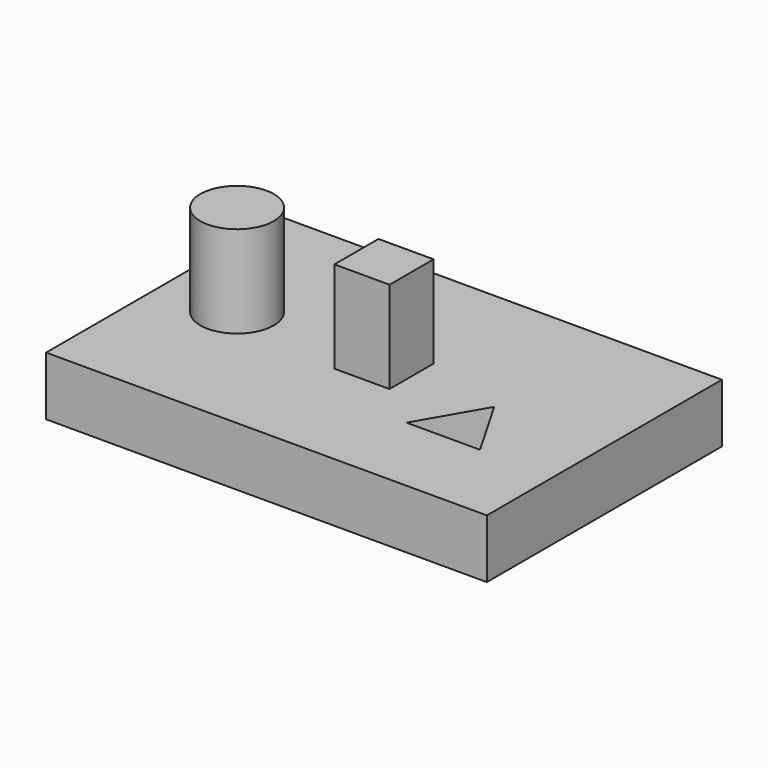
from build123d import *

# Parameters (mm, degrees)
F0_R     = 12.7
F1_DEPTH = 20.32
F2_DEPTH = 52.07


with BuildPart() as f1:
    # F0 (on Top) → F1 (new body)
    with BuildSketch(Plane.XY):
        Polygon((44.45, -50.8), (44.45, 0), (44.45, 50.8), (-107.95, 50.8), (-107.95, -50.8), align=None)
        with Locations((-82.55, 0)):
            Circle(F0_R, mode=Mode.SUBTRACT)
        Polygon((-22.225, 9.525), (-22.225, 0), (-22.225, -9.525), (-41.275, -9.525), (-41.275, 0), (-41.275, 9.525), align=None, mode=Mode.SUBTRACT)
        Polygon((-6.35, -21.9970452561), (6.35, 0), (19.05, -21.9970452561), align=None, mode=Mode.SUBTRACT)
    extrude(amount=F1_DEPTH)


with BuildPart() as f2:
    # F0 (on Top) → F2 (new body)
    with BuildSketch(Plane.XY):
        Polygon((-31.75, 0), (-22.225, 0), (-22.225, 9.525), (-41.275, 9.525), (-41.275, 0), align=None)
        Polygon((-22.225, -9.525), (-22.225, 0), (-31.75, 0), (-41.275, 0), (-41.275, -9.525), align=None)
    extrude(amount=F2_DEPTH)


with BuildPart() as f2b:
    # F0 (on Top) → F2, piece 2 (new body)
    with BuildSketch(Plane.XY):
        with Locations((-82.55, 0)):
            Circle(F0_R)
    extrude(amount=F2_DEPTH)


solid = Compound([f1.part, f2.part, f2b.part])
